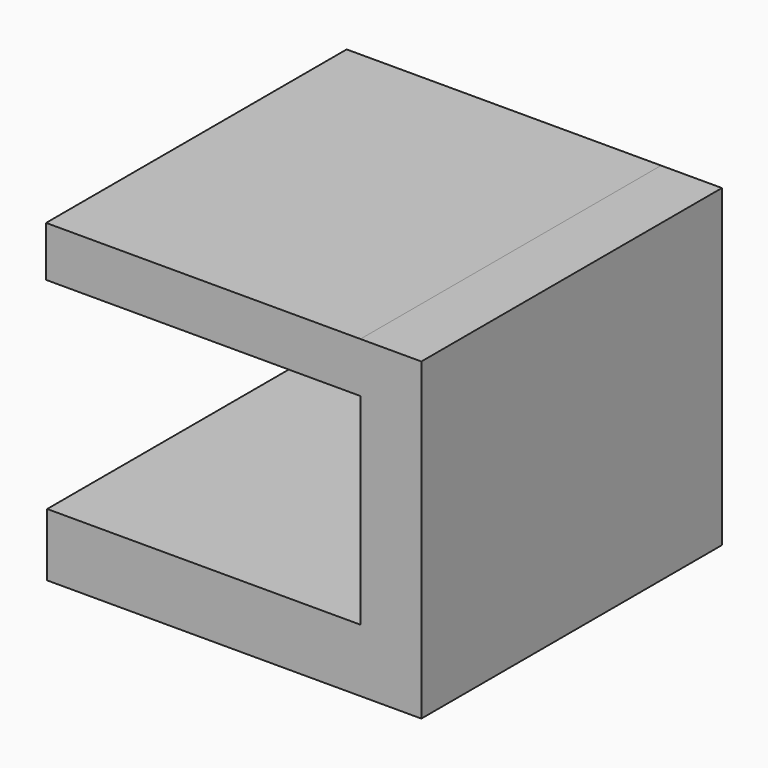
from build123d import *

# Parameters (mm, degrees)
F0_W     = 148.768336
F0_H     = 149.383456
F1_DEPTH = 25
F2_W     = 24.20431
F2_H     = 149.383456
F3_DEPTH = 100
F4_W     = 149.383456
F4_H     = 19.959077
F5_DEPTH = 125


with BuildPart() as f1:
    # F0 (on Top) → F1 (new body)
    with BuildSketch(Plane.XY):
        Rectangle(F0_W, F0_H)
    extrude(amount=F1_DEPTH)

    # F2 (on face) → F3 (join)
    with BuildSketch(Plane.XY.offset(25)):
        with Locations((62.282013, 0)):
            Rectangle(F2_W, F2_H)
    extrude(amount=F3_DEPTH)

    # F4 (on face) → F5 (join)
    with BuildSketch(Plane(origin=(50.179858, 0, 0), x_dir=(0, -1, 0), z_dir=(-1, 0, 0))):
        with Locations((0, 115.020461)):
            Rectangle(F4_W, F4_H)
    extrude(amount=F5_DEPTH)


solid = f1.part
